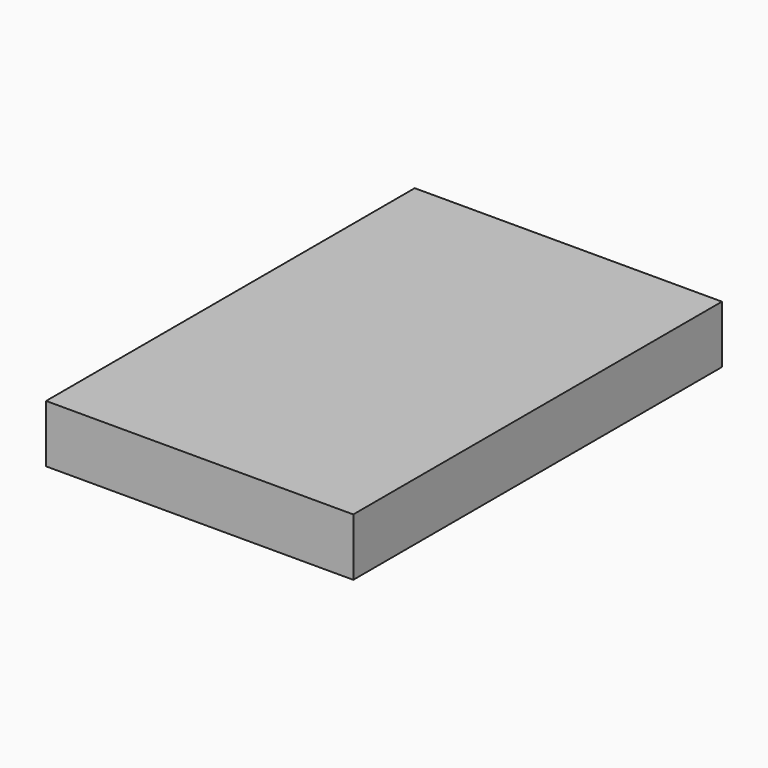
from build123d import *

# Parameters (mm, degrees)
SKETCH_W  = 0.16
SKETCH_H  = 0.24
PAD_DEPTH = 0.015


with BuildPart() as part:
    # Sketch → Pad (new body, symmetric)
    with BuildSketch(Plane.XY):
        Rectangle(SKETCH_W, SKETCH_H)
    extrude(amount=PAD_DEPTH, both=True)


solid = part.part
